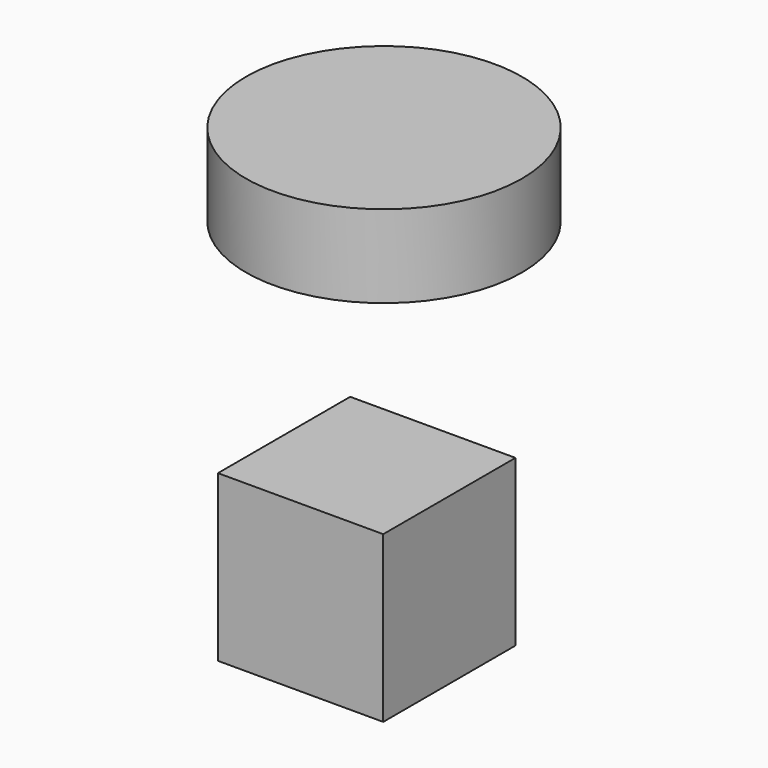
from build123d import *

# Parameters (mm, degrees)
F0_W     = 50
F0_H     = 50
F1_DEPTH = 50
F3_R     = 41.752192
F4_DEPTH = 25


with BuildPart() as f1:
    # F0 (on Front) → F1 (new body)
    with BuildSketch(Plane.XZ):
        with Locations((25, 25)):
            Rectangle(F0_W, F0_H)
    extrude(amount=F1_DEPTH)


with BuildPart() as f4:
    # F3 (on offset) → F4 (new body)
    with BuildSketch(Plane.XY.offset(100)):
        with Locations((10.234222, 0)):
            Circle(F3_R)
    extrude(amount=F4_DEPTH)


solid = Compound([f1.part, f4.part])
